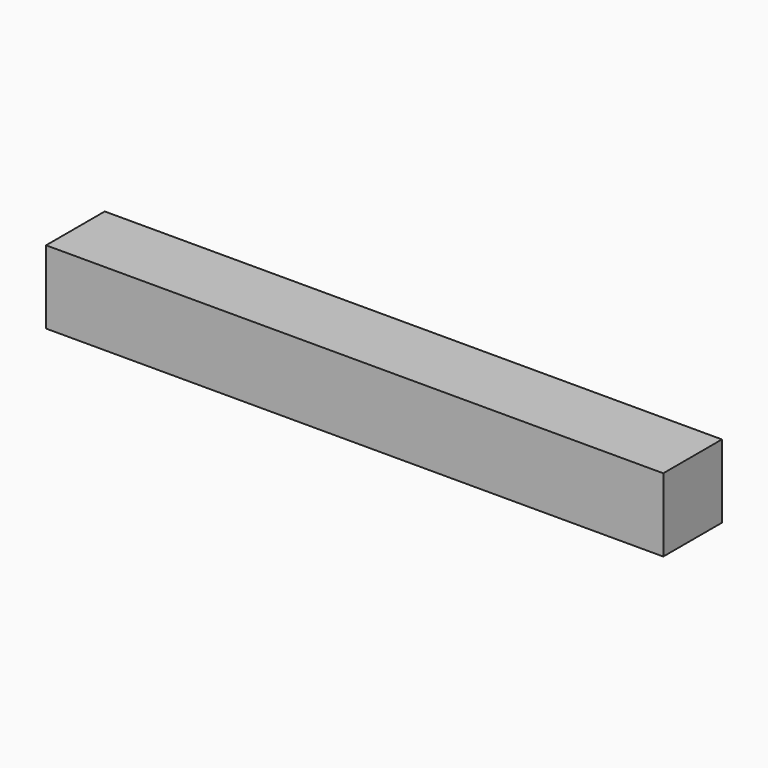
from build123d import *

# Parameters (mm, degrees)
BOX001_W     = 404
BOX001_H     = 48
BOX001_DEPTH = 48


with BuildPart() as part:
    # Box001 → Box001 (new body)
    with BuildSketch(Plane.XY):
        with Locations((202, 24)):
            Rectangle(BOX001_W, BOX001_H)
    extrude(amount=BOX001_DEPTH)


solid = part.part
